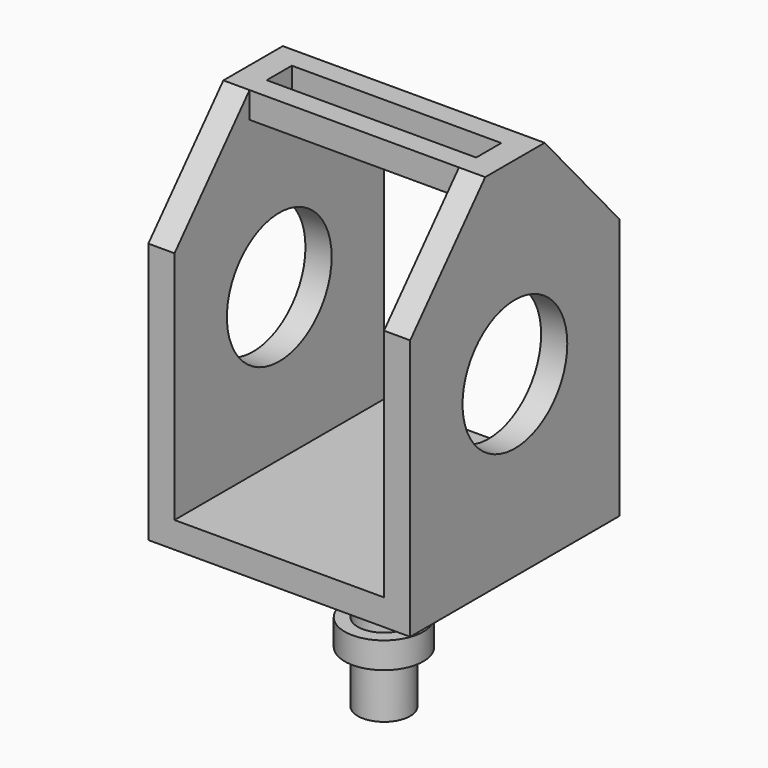
from build123d import *

# Parameters (mm, degrees)
F0_W      = 127
F0_H      = 127
F1_DEPTH  = 254
F5_W      = 101.6
F5_H      = 152.4
F6_DEPTH  = 127
F8_R      = 31.75
F9_DEPTH  = 254
F11_W     = 101.6
F11_H     = 25.9214961534
F11_H_2   = 7.62
F12_DEPTH = 25.4


with BuildPart() as f1:
    # F0 (on Top) → F1 (new body)
    with BuildSketch(Plane.XY):
        Rectangle(F0_W, F0_H)
    extrude(amount=F1_DEPTH)

    # F2 (on Front) → F3 (revolve, cut)
    with BuildSketch(Plane.XZ):
        Polygon((12.7, 25.4), (12.7, 0), (118.2309914892, 0), (118.2309914892, 76.2), (12.7, 76.2), (12.7, 38.1), (19.05, 38.1), (19.05, 25.4), align=None)
    revolve(axis=Axis((0, 0, 127.3276656866), (0, 0, 1)), mode=Mode.SUBTRACT)

    # F5 (on offset) → F6 (cut, through all)
    with BuildSketch(Plane.XZ.offset(63.5)):
        with Locations((0, 165.1)):
            Rectangle(F5_W, F5_H)
    extrude(amount=-F6_DEPTH, mode=Mode.SUBTRACT)

    # F8 (on offset) → F9 (cut)
    with BuildSketch(Plane.YZ.offset(63.5)):
        Polygon((-67.3566020369, 261.3644381861), (-66.4902816981, 199.4223662228), (-11.4787761731, 261.3644381861), align=None)
        Polygon((11.4787761731, 261.3644381861), (66.4902816981, 199.4223662228), (67.3566020369, 261.3644381861), align=None)
        with Locations((0, 162.56)):
            Circle(F8_R)
    extrude(amount=-F9_DEPTH, mode=Mode.SUBTRACT)

    # F11 (on offset) → F12 (cut)
    with BuildSketch(Plane.XY.offset(254)):
        with Locations((0, 30.9799711404)):
            Rectangle(F11_W, F11_H)
        with Locations((0, -30.9799711404)):
            Rectangle(F11_W, F11_H)
        with Locations((0, 3.81)):
            Rectangle(F11_W, F11_H_2)
        with Locations((0, -3.81)):
            Rectangle(F11_W, F11_H_2)
    extrude(amount=-F12_DEPTH, mode=Mode.SUBTRACT)


solid = f1.part
